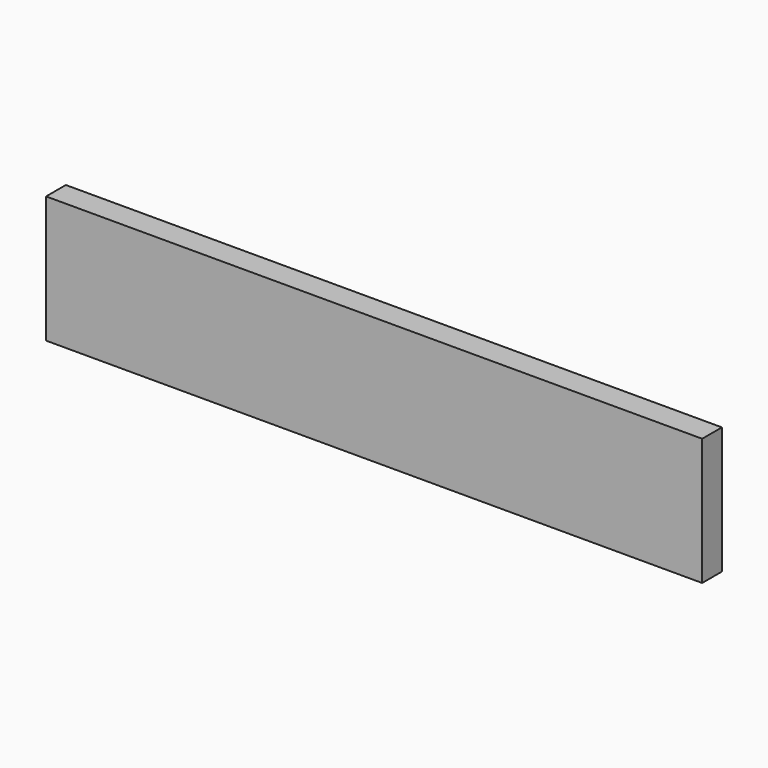
from build123d import *

# Parameters (mm, degrees)
F0_W     = 1860
F0_H     = 360
F1_DEPTH = 70
F2_SCALE = 0.4


with BuildPart() as f1:
    # F0 (on Front) → F1 (new body)
    with BuildSketch(Plane.XZ):
        with Locations((11.2879388034, -393.6008977369)):
            Rectangle(F0_W, F0_H)
    extrude(amount=F1_DEPTH)


with BuildPart() as f1_1:
    # F2: moved
    add(f1.part.scale(F2_SCALE).moved(Location((564.7727632821, -42, -344.1605386422))))


solid = f1_1.part
